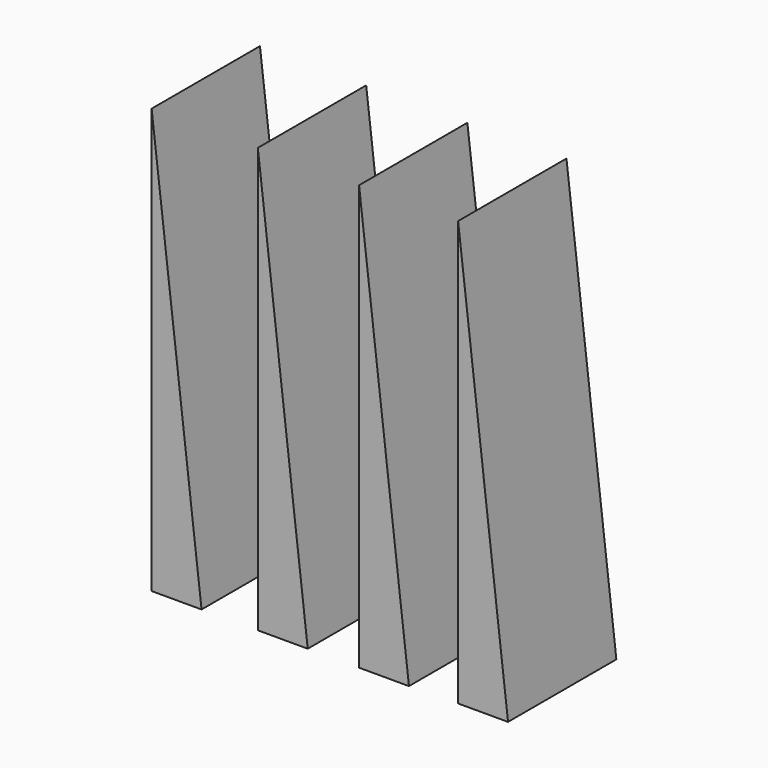
from build123d import *

# Parameters (mm, degrees)
F1_DEPTH = 19


with BuildPart() as f1:
    # F0 (on Front) → F1 (new body)
    with BuildSketch(Plane.XZ):
        Polygon((0, 59.590268), (0, 0), (7, 0), align=None)
    extrude(amount=F1_DEPTH)


with BuildPart() as f2_1:
    # F2: copy of F1
    add(f1.part.moved(Location((13.9, 0, 0.1))))


with BuildPart() as f3_1:
    # F3: copy of F1
    add(f1.part.moved(Location((-14.2, 0, 0))))


with BuildPart() as f4_1:
    # F4: copy of F1
    add(f1.part.moved(Location((-29.1, 0, 0))))


solid = Compound([f1.part, f2_1.part, f3_1.part, f4_1.part])
